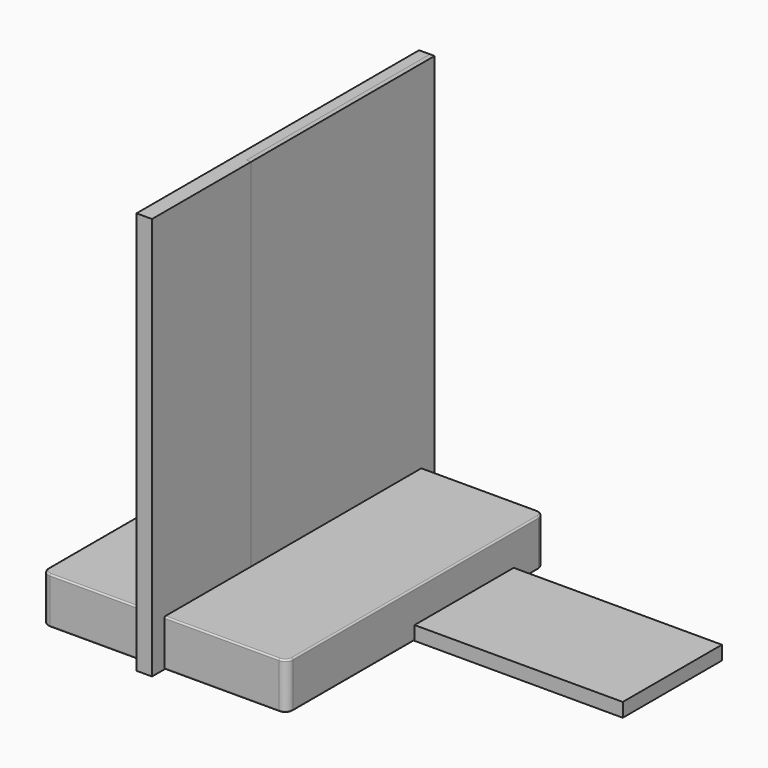
from build123d import *

# Parameters (mm, degrees)
F0_W     = 1580
F0_H     = 2080
F1_DEPTH = 300
F2_R     = 50
F3_R     = 10
F4_W     = 2200
F4_H     = 800
F5_DEPTH = 90
F6_W     = 2280
F6_H     = 2600
F7_DEPTH = 100
F8_W     = 1480
F8_H     = 2600
F9_DEPTH = 30


with BuildPart() as f1:
    # F0 (on Top) → F1 (new body)
    with BuildSketch(Plane.XY):
        Rectangle(F0_W, F0_H)
    extrude(amount=F1_DEPTH)

    # F2
    f2_edges = [f1.edges().sort_by_distance(p)[0] for p in [
        (-790, 1040, 150),
        (-790, -1040, 150),
        (790, -1040, 150),
        (790, 1040, 150),
    ]]
    fillet(f2_edges, radius=F2_R)

    # F3
    f3_edges = [f1.edges().sort_by_distance(p)[0] for p in [
        (-790, 0, 300),
        (-790, 0, 0),
    ]]
    fillet(f3_edges, radius=F3_R)


with BuildPart() as f5:
    # F4 (on Top) → F5 (new body)
    with BuildSketch(Plane.XY):
        with Locations((1034.351802, 390.71501)):
            Rectangle(F4_W, F4_H)
    extrude(amount=F5_DEPTH)


with BuildPart() as f7:
    # F6 (on Right) → F7 (new body)
    with BuildSketch(Plane.YZ):
        with Locations((0, 1300)):
            Rectangle(F6_W, F6_H)
    extrude(amount=-F7_DEPTH)


with BuildPart() as f9:
    # F8 (on Right) → F9 (new body)
    with BuildSketch(Plane.YZ):
        with Locations((400, 1300)):
            Rectangle(F8_W, F8_H)
    extrude(amount=-F9_DEPTH)


solid = Compound([f1.part, f5.part, f7.part, f9.part])
